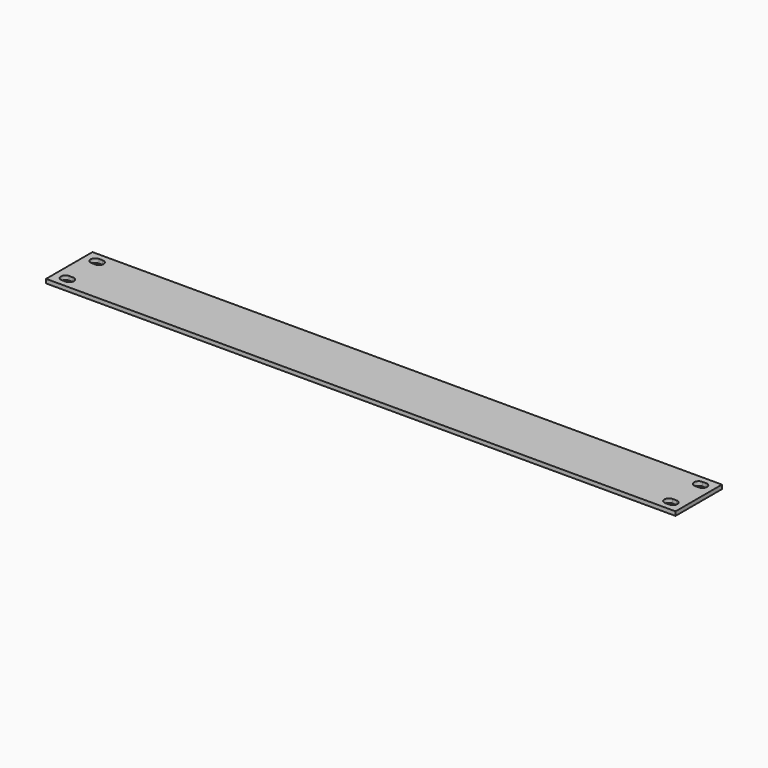
from build123d import *

# Parameters (mm, degrees)
F0_W     = 482.6
F0_H     = 44.45
F1_DEPTH = 3.1


with BuildPart() as f1:
    # F0 (on Top) → F1 (new body)
    with BuildSketch(Plane.XY):
        Rectangle(F0_W, F0_H)
        with BuildLine():
            ThreePointArc((-232.8, -17.725), (-236.3, -14.225), (-232.8, -10.725))
            Line((-232.8, -10.725), (-229.85, -10.725))
            ThreePointArc((-229.85, -10.725), (-226.35, -14.225), (-229.85, -17.725))
            Line((-229.85, -17.725), (-232.8, -17.725))
        make_face(mode=Mode.SUBTRACT)
        with BuildLine():
            ThreePointArc((229.85, -17.725), (226.35, -14.225), (229.85, -10.725))
            Line((229.85, -10.725), (232.8, -10.725))
            ThreePointArc((232.8, -10.725), (236.3, -14.225), (232.8, -17.725))
            Line((232.8, -17.725), (229.85, -17.725))
        make_face(mode=Mode.SUBTRACT)
        with BuildLine():
            ThreePointArc((-232.8, 10.725), (-236.3, 14.225), (-232.8, 17.725))
            Line((-232.8, 17.725), (-229.85, 17.725))
            ThreePointArc((-229.85, 17.725), (-226.35, 14.225), (-229.85, 10.725))
            Line((-229.85, 10.725), (-232.8, 10.725))
        make_face(mode=Mode.SUBTRACT)
        with BuildLine():
            ThreePointArc((229.85, 10.725), (226.35, 14.225), (229.85, 17.725))
            Line((229.85, 17.725), (232.8, 17.725))
            ThreePointArc((232.8, 17.725), (236.3, 14.225), (232.8, 10.725))
            Line((232.8, 10.725), (229.85, 10.725))
        make_face(mode=Mode.SUBTRACT)
    extrude(amount=F1_DEPTH)


solid = f1.part
